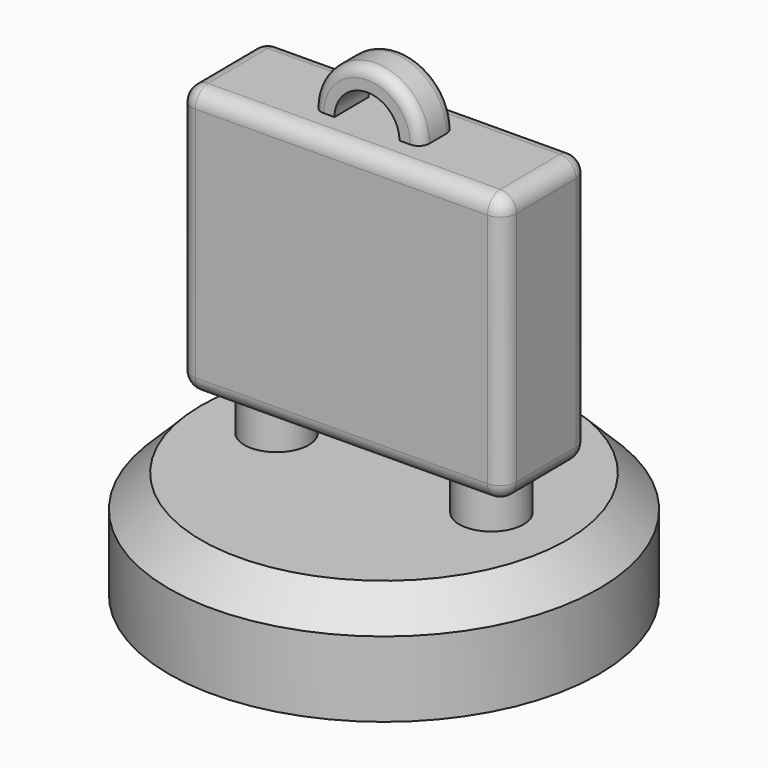
from build123d import *

# Parameters (mm, degrees)
F0_R      = 10
F1_DEPTH  = 5
F2_SIZE   = 1.5
F3_R      = 1.5
F4_DEPTH  = 2
F6_DEPTH  = 12.5
F7_R      = 0.75
F10_DEPTH = 1
F11_DEPTH = 1
F12_R     = 0.5


with BuildPart() as f1:
    # F0 (on Top) → F1 (new body)
    with BuildSketch(Plane.XY):
        Circle(F0_R)
    extrude(amount=F1_DEPTH)

    # F2
    f2_edges = [f1.edges().sort_by_distance(p)[0] for p in [
        (-10, 0, 5),
    ]]
    chamfer(f2_edges, length=F2_SIZE)

    # F3 (on face) → F4 (join)
    with BuildSketch(Plane.XY.offset(5)):
        with Locations((-5, 0)):
            Circle(F3_R)
        with Locations((5, 0)):
            Circle(F3_R)
    extrude(amount=F4_DEPTH)

    # F5 (on face) → F6 (join)
    with BuildSketch(Plane.XY.offset(7)):
        Polygon((-7.5213718601, 2.4349466817), (-7.4997186786, -0.0649595445), (-7.4780654971, -2.5648657707), (7.5213718601, -2.4349466817), (7.4780654971, 2.5648657707), align=None)
        with BuildLine():
            ThreePointArc((-3.5, 0), (-3.5000766094, -0.015159897), (-3.50030643, -0.0303182454))
            ThreePointArc((-3.50030643, -0.0303182454), (-4.9870080911, -1.4999437357), (-6.4989433936, -0.0562912318))
            ThreePointArc((-6.4989433936, -0.0562912318), (-5.0281505737, 1.4997358251), (-3.5, 0))
        make_face(mode=Mode.SUBTRACT)
        with BuildLine():
            Line((-6.4989433936, -0.0562912318), (-3.50030643, -0.0303182454))
            ThreePointArc((-3.50030643, -0.0303182454), (-3.5000766094, -0.015159897), (-3.5, 0))
            ThreePointArc((-3.5, 0), (-5.0281505737, 1.4997358251), (-6.4989433936, -0.0562912318))
        make_face()
        with BuildLine():
            ThreePointArc((-6.4989433936, -0.0562912318), (-4.9870080911, -1.4999437357), (-3.50030643, -0.0303182454))
            Line((-3.50030643, -0.0303182454), (-6.4989433936, -0.0562912318))
        make_face()
    extrude(amount=F6_DEPTH)

    # F7
    f7_edges = [f1.edges().sort_by_distance(p)[0] for p in [
        (0.021653, -2.499906, 7),
        (7.521372, -2.434947, 13.25),
        (-7.478065, -2.564866, 13.25),
        (-7.521372, 2.434947, 13.25),
        (-7.499719, -0.06496, 7),
        (-7.499719, -0.06496, 19.5),
        (-0.021653, 2.499906, 19.5),
        (0.021653, -2.499906, 19.5),
        (7.499719, 0.06496, 19.5),
        (7.478065, 2.564866, 13.25),
        (7.499719, 0.06496, 7),
        (-0.021653, 2.499906, 7),
    ]]
    fillet(f7_edges, radius=F7_R)

    # F9 (on offset) → F10 (join)
    with BuildSketch(Plane(origin=(0, 0, 0), x_dir=(-0.9999624905, -0.0086612726, 0), z_dir=(-0.0086612726, 0.9999624905, 0))):
        with BuildLine():
            ThreePointArc((-1.5, 19.5), (0, 21), (1.5, 19.5))
            Line((1.5, 19.5), (2.5, 19.5))
            ThreePointArc((2.5, 19.5), (0, 22), (-2.5, 19.5))
            Line((-2.5, 19.5), (-1.5, 19.5))
        make_face()
    extrude(amount=F10_DEPTH)

    # F11 (add): a face of the model
    f11_faces = [f1.faces().sort_by_distance(p)[0] for p in [
        (0, 0, 21.0559016994),
    ]]
    extrude(f11_faces, amount=F11_DEPTH)

    # F12
    f12_edges = [f1.edges().sort_by_distance(p)[0] for p in [
        (-0.008661, 0.999962, 22),
        (0.008661, -0.999962, 22),
    ]]
    fillet(f12_edges, radius=F12_R)


solid = f1.part
